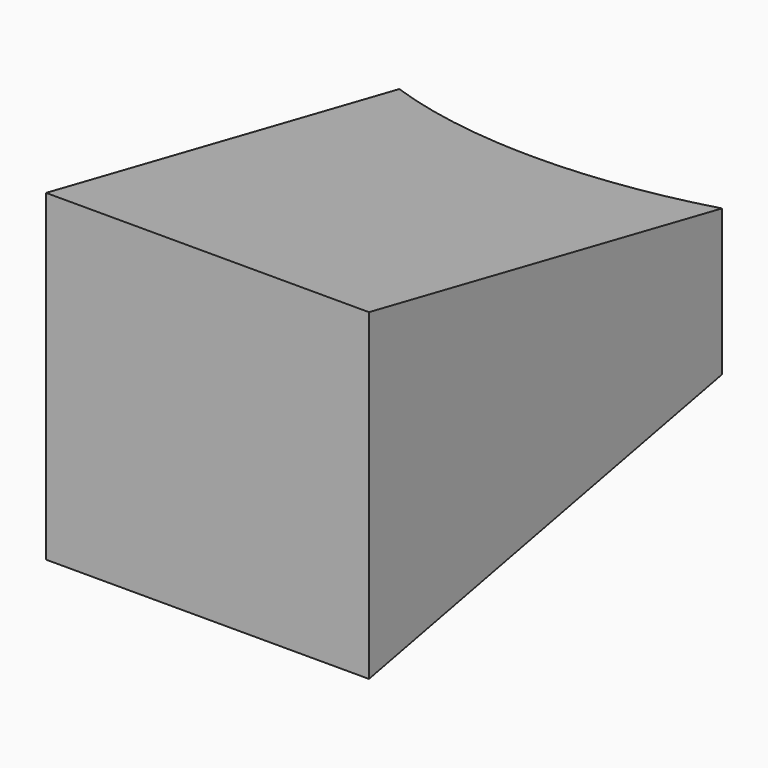
from build123d import *

# Parameters (mm, degrees)
F3_W     = 25.4
F3_H     = 25.4
F2_W     = 25.4
F2_H     = 10.16
F5_DEPTH = 25.4


with BuildPart() as f4:
    # F3 (on Front) → F4 section 0
    with BuildSketch(Plane.XZ):
        with Locations((-16.086667, 12.7)):
            Rectangle(F3_W, F3_H)
    # F2 (on offset) → F4 section 1
    with BuildSketch(Plane.XZ.offset(-38.1)):
        with Locations((-16.120172, 12.7)):
            Rectangle(F2_W, F2_H)
    loft()

    # F0 (on Top) → F5 (cut)
    with BuildSketch(Plane.XY):
        with BuildLine():
            ThreePointArc((-16.086667, 32.057061), (5.986803, 41.200191), (15.129933, 63.273661))
            ThreePointArc((15.129933, 63.273661), (-38.160136, 85.34713), (-16.086667, 32.057061))
        make_face()
    extrude(amount=F5_DEPTH, mode=Mode.SUBTRACT)


solid = f4.part
